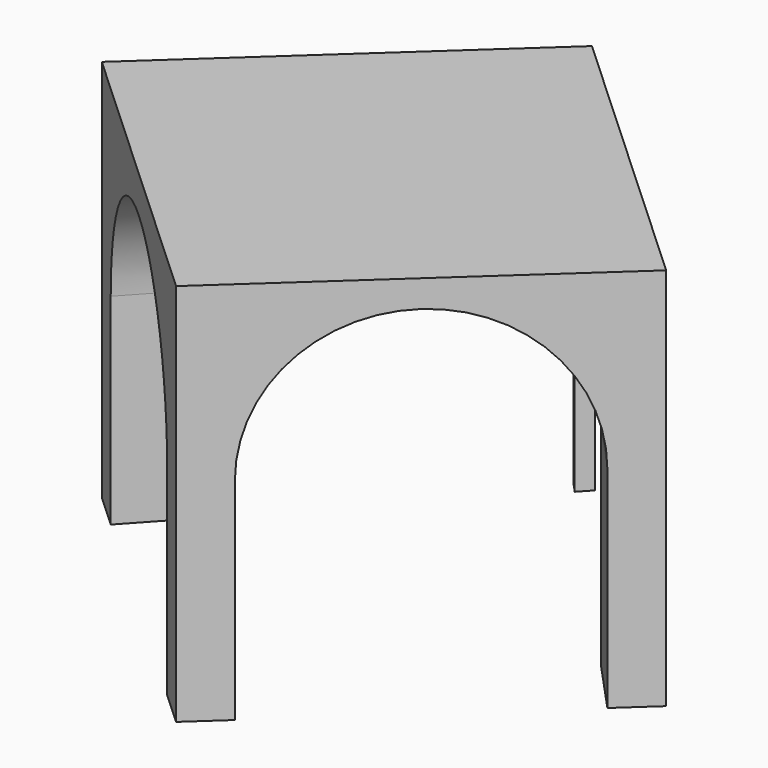
from build123d import *

# Parameters (mm, degrees)
F1_DEPTH = 50
F3_DEPTH = 50
F5_DEPTH = 74.7484416821


with BuildPart() as f1:
    # F0 (on Top) → F1 (new body)
    with BuildSketch(Plane.XY):
        Polygon((36.7763043397, 0), (0, 33.874820134), (-36.7763043397, 0), (0, -33.874820134), align=None)
    extrude(amount=-F1_DEPTH)

    # F2 (on face) → F3 (cut)
    with BuildSketch(Plane(origin=(-16.8803742831, -18.3262310928, 0), x_dir=(0.7355260868, -0.6774964027, 0), z_dir=(-0.6774964027, -0.7355260868, 0))):
        with BuildLine():
            Line((-21.0499312177, -23.8044057041), (-21.0499312177, -50))
            Line((-21.0499312177, -50), (16.9500687823, -50))
            Line((16.9500687823, -50), (16.9500687823, -23.8044057041))
            ThreePointArc((16.9500687823, -23.8044057041), (-2.0499312177, -4.8044057041), (-21.0499312177, -23.8044057041))
        make_face()
    extrude(amount=-F3_DEPTH, mode=Mode.SUBTRACT)

    # F4 (on face) → F5 (cut, through all)
    with BuildSketch(Plane(origin=(16.8803742831, -18.3262310928, 0), x_dir=(0.7355260868, 0.6774964027, 0), z_dir=(0.6774964027, -0.7355260868, 0))):
        with BuildLine():
            Line((-16.9500687823, -22.5290991366), (-16.9500687823, -50))
            Line((-16.9500687823, -50), (21.0499312177, -50))
            Line((21.0499312177, -50), (21.0499312177, -22.5290991366))
            ThreePointArc((21.0499312177, -22.5290991366), (2.0499312177, -3.5290991366), (-16.9500687823, -22.5290991366))
        make_face()
    extrude(amount=-F5_DEPTH, mode=Mode.SUBTRACT)


solid = f1.part
